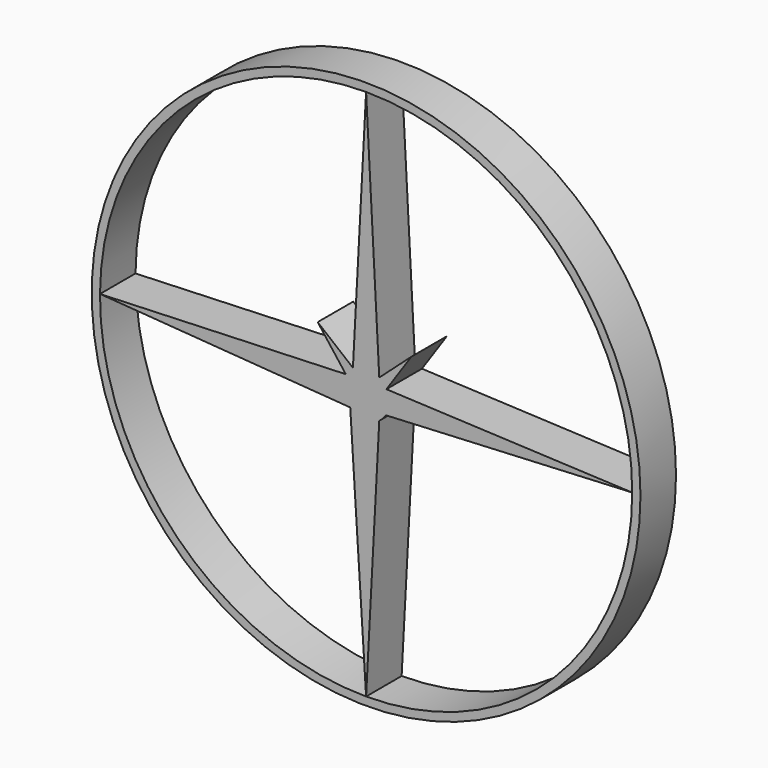
from build123d import *

# Parameters (mm, degrees)
F1_DEPTH = 12.7
F0_R     = 78.4487884366


with BuildPart() as f1:
    # F0 (on Front) → F1 (new body)
    with BuildSketch(Plane.XZ):
        with BuildLine():
            Line((5.6320258197, -3.4509532399), (76.0859069982, 0))
            Line((76.0859069982, 0), (5.8060802368, 3.149321416))
            Line((5.8060802368, 3.149321416), (12.946058248, 13.6532578617))
            Line((12.946058248, 13.6532578617), (3.7652573822, 5.4269355942))
            Line((3.7652573822, 5.4269355942), (0, 76.0859069982))
            Line((0, 76.0859069982), (-3.7652573822, 5.4269355942))
            Line((-3.7652573822, 5.4269355942), (-13.8442134485, 13.6532578617))
            Line((-13.8442134485, 13.6532578617), (-5.8060802368, 3.149321416))
            Line((-5.8060802368, 3.149321416), (-76.0842881314, 0.4963298042))
            Line((-76.0842881314, 0.4963298042), (-4.5360151716, -4.8013914087))
            Line((-4.5360151716, -4.8013914087), (0, -76.0859069982))
            Line((0, -76.0859069982), (3.7652573822, -5.4269355942))
            ThreePointArc((3.7652573822, -5.4269355942), (4.8013914087, -4.5360151716), (5.6320258197, -3.4509532399))
        make_face()
    extrude(amount=F1_DEPTH)


with BuildPart() as f1b:
    # F0 (on Front) → F1, piece 2 (new body)
    with BuildSketch(Plane.XZ):
        Circle(F0_R)
        with BuildLine():
            ThreePointArc((0, 76.0859069982), (53.8008607911, 53.8008607911), (76.0859069982, 0))
            ThreePointArc((76.0859069982, 0), (53.8008607911, -53.8008607911), (0, -76.0859069982))
            ThreePointArc((0, -76.0859069982), (-53.976054631, -53.6250945939), (-76.0842881314, 0.4963298042))
            ThreePointArc((-76.0842881314, 0.4963298042), (-53.6250945939, 53.976054631), (0, 76.0859069982))
        make_face(mode=Mode.SUBTRACT)
    extrude(amount=F1_DEPTH)


solid = Compound([f1.part, f1b.part])
